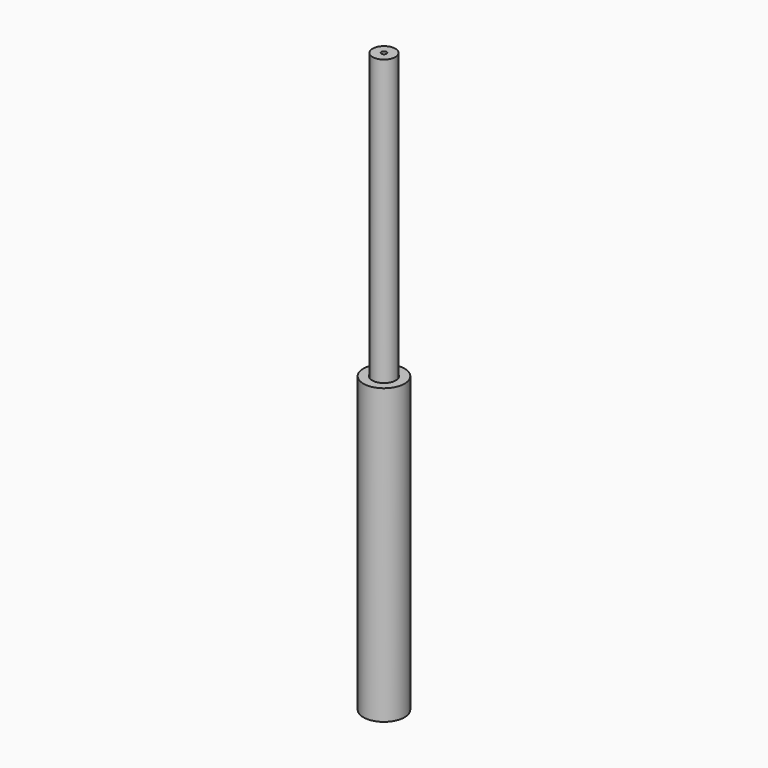
from build123d import *


with BuildPart() as f1:
    # F0 (on Front) → F1 (revolve)
    with BuildSketch(Plane.XZ):
        Polygon((-5.4, -3.1), (-3.882332, -3.1), (-2.382332, -3.1), (-2.382332, 95.4), (-0.882332, 95.4), (-0.882332, 96.9), (-3.882332, 96.9), (-3.882332, -1.6), (-5.4, -1.6), align=None)
        Polygon((-4, 0), (-7, 0), (-7, -100), (-5.5, -100), (-5.5, -1.5), (-4, -1.5), align=None)
    revolve(axis=Axis((0, 0, -57.572339), (0, 0, -1)))


solid = f1.part
